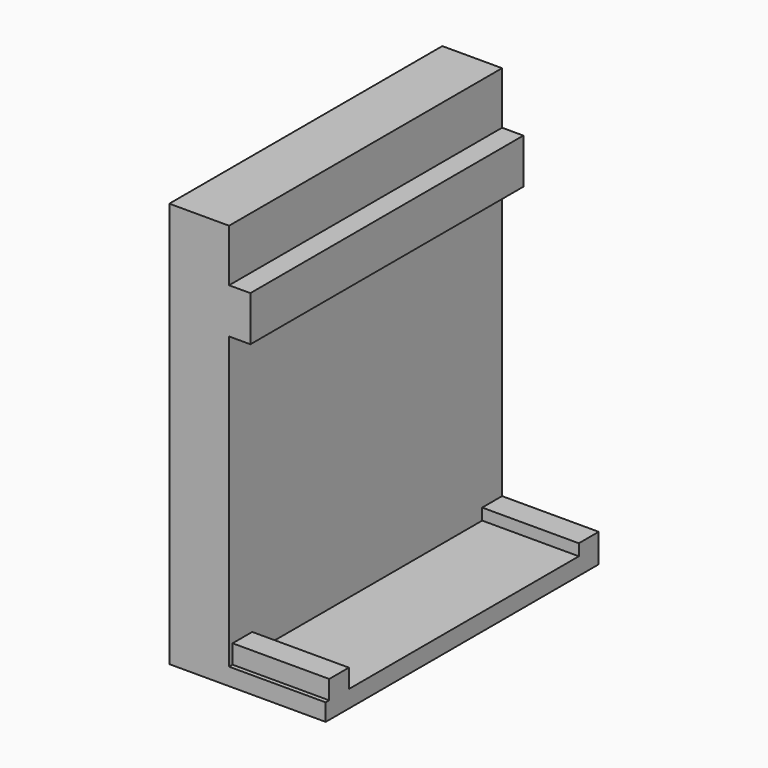
from build123d import *

# Parameters (mm, degrees)
F0_W     = 7.924799
F0_H     = 16.764
F0_W_2   = 35.9664
F0_H_2   = 6.400802
F1_DEPTH = 127
F2_W     = 9.144009
F2_H     = 13.411206
F2_W_2   = 9.2456
F2_H_2   = 9.7536
F3_DEPTH = 51.562


with BuildPart() as f1:
    # F0 (on Front) → F1 (new body)
    with BuildSketch(Plane.XZ):
        Polygon((-35.9664, 75.133204), (-58.216799, 75.133204), (-58.216799, -75.742804), (-35.9664, -75.742804), (-35.9664, -69.342002), (-35.9664, 38.862001), (-35.9664, 55.626001), align=None)
        with Locations((-32.004001, 47.244001)):
            Rectangle(F0_W, F0_H)
        with Locations((-17.9832, -72.542403)):
            Rectangle(F0_W_2, F0_H_2)
    extrude(amount=F1_DEPTH)

    # F2 (on Right) → F3 (join)
    with BuildSketch(Plane.YZ):
        with Locations((-120.802402, -69.037201)):
            Rectangle(F2_W, F2_H)
        with Locations((-4.6228, -69.951601)):
            Rectangle(F2_W_2, F2_H_2)
    extrude(amount=-F3_DEPTH)


solid = f1.part
